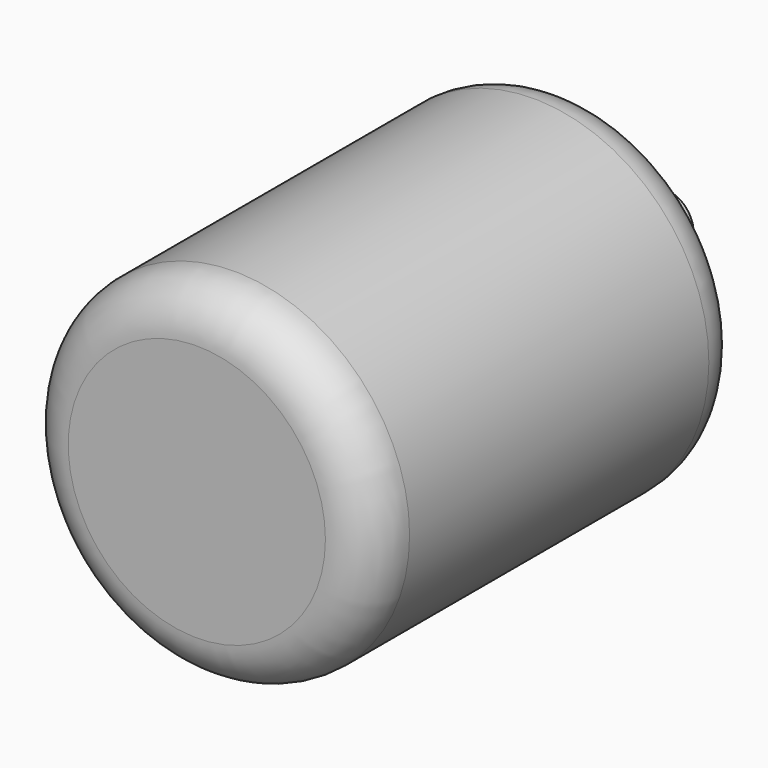
from build123d import *

# Parameters (mm, degrees)
SKETCH_R     = 75
PAD_DEPTH    = 200
SKETCH001_R  = 12.5
PAD001_DEPTH = 50
FILLET_R     = 20
FILLET001_R  = 20


with BuildPart() as part:
    # Sketch → Pad (new body)
    with BuildSketch(Plane.XZ):
        Circle(SKETCH_R)
    extrude(amount=PAD_DEPTH)

    # Sketch001 → Pad001 (join)
    with BuildSketch(Plane.XZ):
        Circle(SKETCH001_R)
    extrude(amount=-PAD001_DEPTH)

    # Fillet
    fillet_edges = [part.edges().sort_by_distance(p)[0] for p in [
        (-75, 0, 0),
    ]]
    fillet(fillet_edges, radius=FILLET_R)

    # Fillet001
    fillet001_edges = [part.edges().sort_by_distance(p)[0] for p in [
        (-75, -200, 0),
    ]]
    fillet(fillet001_edges, radius=FILLET001_R)


solid = part.part
